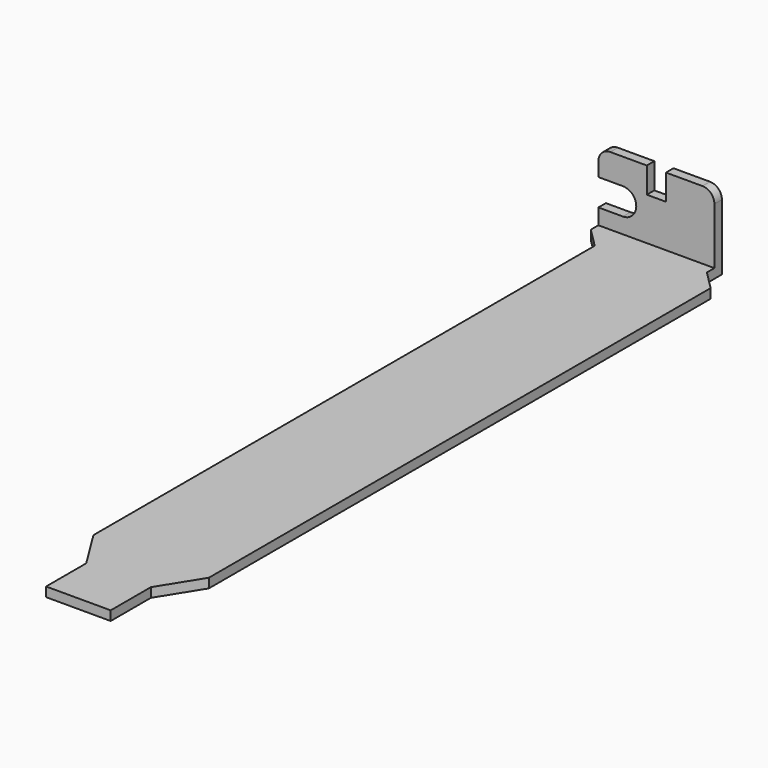
from build123d import *

# Parameters (mm, degrees)
F1_DEPTH = 1.5
F2_W     = 18.5
F2_H     = 1.5
F3_DEPTH = 10.9
F4_W     = 3.05
F4_H     = 4.1
F5_DEPTH = 25
F6_W     = 1.5
F6_H     = 78.4
F7_DEPTH = 1.5


with BuildPart() as f1:
    # F0 (on Top) → F1 (new body)
    with BuildSketch(Plane.XY):
        Polygon((-3.1, 103), (0, 99.9), (0, 0), (4.05, -6.5), (4.05, -14.5), (14.35, -14.5), (14.35, -6.5), (18.4, 0), (18.4, 100), (15.4, 103), (15.4, 106), (-3.1, 106), align=None)
    extrude(amount=F1_DEPTH)

    # F2 (on face) → F3 (join)
    with BuildSketch(Plane.XY.offset(1.5)):
        with Locations((6.15, 105.25)):
            Rectangle(F2_W, F2_H)
    extrude(amount=F3_DEPTH)

    # F4 (on face) → F5 (cut)
    with BuildSketch(Plane(origin=(0, 106, 0), x_dir=(-1, 0, 0), z_dir=(0, 1, 0))):
        with Locations((-6.15, 10.35)):
            Rectangle(F4_W, F4_H)
        with BuildLine():
            ThreePointArc((-15.4, 10.5), (-14.843503, 11.843503), (-13.5, 12.4))
            Line((-13.5, 12.4), (-15.4, 12.4))
            Line((-15.4, 12.4), (-15.4, 10.5))
        make_face()
        with BuildLine():
            Line((3.1, 12.4), (1.2, 12.4))
            ThreePointArc((1.2, 12.4), (2.543503, 11.843503), (3.1, 10.5))
            Line((3.1, 10.5), (3.1, 12.4))
        make_face()
        with BuildLine():
            Line((3.1, 8.26), (-0.8125, 8.26))
            ThreePointArc((-0.8125, 8.26), (-2.9425, 6.13), (-0.8125, 4))
            Line((-0.8125, 4), (3.1, 4))
            Line((3.1, 4), (3.1, 8.26))
        make_face()
    extrude(amount=-F5_DEPTH, mode=Mode.SUBTRACT)

    # F6 (on face) → F7 (join)
    with BuildSketch(Plane(origin=(0, 0, 0), x_dir=(1, 0, 0), z_dir=(0, 0, -1))):
        with Locations((0.75, -45)):
            Rectangle(F6_W, F6_H)
    extrude(amount=F7_DEPTH)


solid = f1.part
